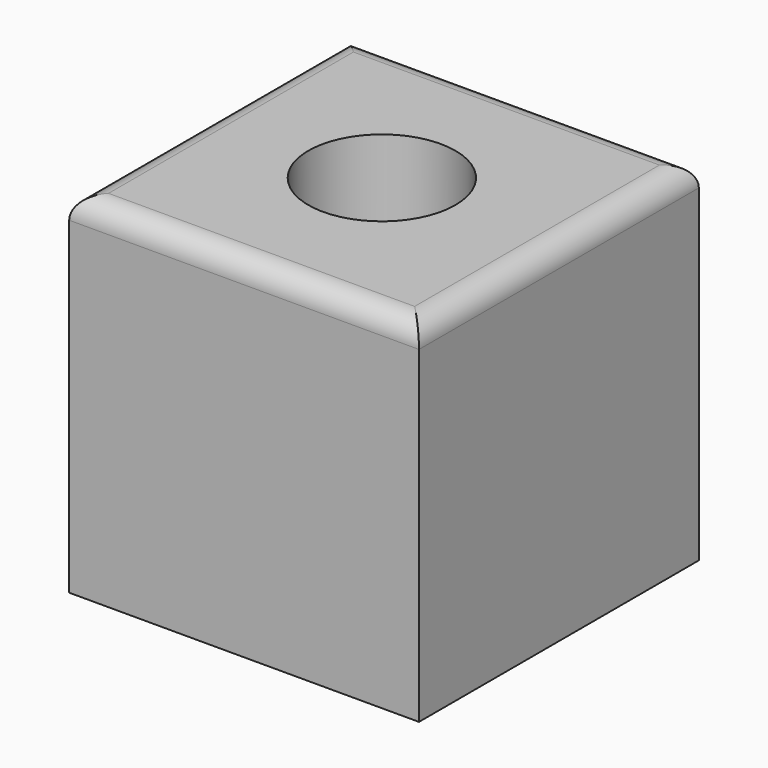
from build123d import *

# Parameters (mm, degrees)
F0_W     = 80
F0_H     = 80
F1_DEPTH = 80
F2_R     = 16.82409
F3_DEPTH = 80.001
F4_R     = 5


with BuildPart() as f1:
    # F0 (on Top) → F1 (new body)
    with BuildSketch(Plane.XY):
        with Locations((-54.952934, 27.584402)):
            Rectangle(F0_W, F0_H)
    extrude(amount=F1_DEPTH)

    # F2 (on face) → F3 (cut, through all)
    with BuildSketch(Plane.XY.offset(80)):
        with Locations((-55.576466, 27.750002)):
            Circle(F2_R)
    extrude(amount=-F3_DEPTH, mode=Mode.SUBTRACT)

    # F4
    f4_edges = [f1.edges().sort_by_distance(p)[0] for p in [
        (-54.952934, 67.584402, 80),
        (-94.952934, 27.584402, 80),
        (-54.952934, -12.415598, 80),
        (-14.952934, 27.584402, 80),
    ]]
    fillet(f4_edges, radius=F4_R)


solid = f1.part
